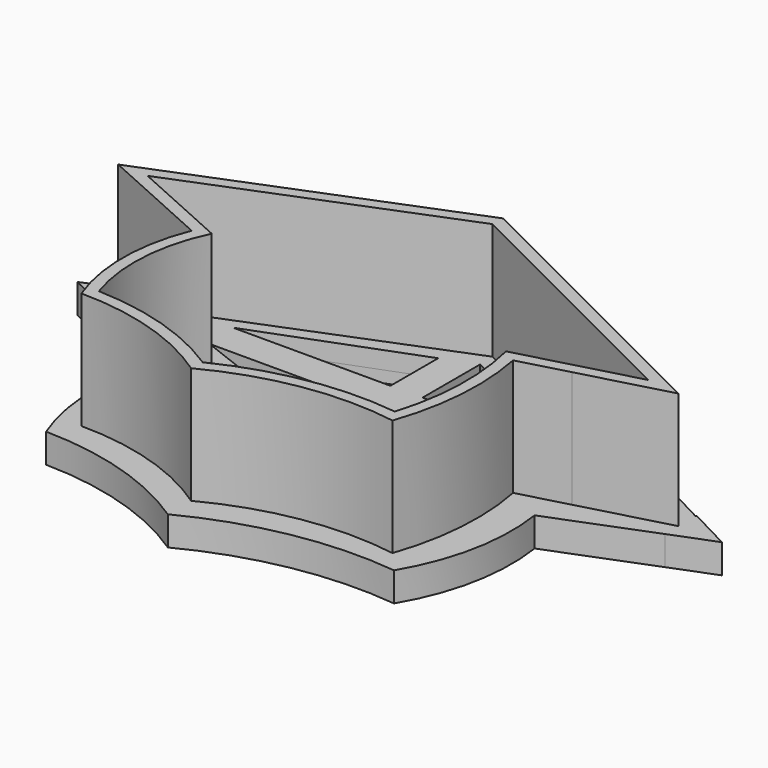
from build123d import *

# Parameters (mm, degrees)
F1_DEPTH = 25
F2_T     = -2
F3_DEPTH = 5
F4_DEPTH = 2.001


with BuildPart() as f1:
    # F0 (on Top) → F1 (new body)
    with BuildSketch(Plane.XY):
        with BuildLine():
            Line((50, 25), (0, 50))
            Line((0, 50), (-50, 30))
            Line((-50, 30), (-30.3478781134, 21.1675856689))
            ThreePointArc((-30.3478781134, 21.1675856689), (-32.6493723673, 9.4732493681), (-30.5, -2.25))
            Line((-30.5, -2.25), (-26.5, -2.25))
            Line((-26.5, -2.25), (-26.5, 3.6853529656))
            ThreePointArc((-26.5, 3.6853529656), (-27.4818472664, 11.1586005985), (-26.5, 18.6318482313))
            Line((-26.5, 18.6318482313), (-26.5, 19.4382022472))
            Line((-26.5, 19.4382022472), (-26.2986962157, 19.3477286363))
            ThreePointArc((-26.2986962157, 19.3477286363), (-25.4656340579, 21.7699494798), (-24.4215968996, 24.1089947522))
            Line((-24.4215968996, 24.1089947522), (-31.9740222767, 27.0544973761))
            Line((-31.9740222767, 27.0544973761), (-39.5264476538, 30))
            Line((-39.5264476538, 30), (-32.4590496756, 32.6820262372))
            Line((-32.4590496756, 32.6820262372), (-5.5, 42.9127899192))
            Line((-5.5, 42.9127899192), (0, 45))
            Line((0, 45), (24.6359475255, 32.6820262372))
            Line((24.6359475255, 32.6820262372), (35.8910052478, 27.0544973761))
            Line((35.8910052478, 27.0544973761), (38.0609311461, 25.9695344269))
            Line((38.0609311461, 25.9695344269), (34.1284329528, 25))
            Line((34.1284329528, 25), (25.6717936096, 22.915065036))
            ThreePointArc((25.6717936096, 22.915065036), (26.2373168575, 20.8214995062), (26.7024967211, 18.7033774922))
            Line((26.7024967211, 18.7033774922), (35, 20.9459459459))
            Line((35, 20.9459459459), (50, 25))
        make_face()
        with BuildLine():
            Line((-26.5, 3.6853529656), (-26.5, -2.25))
            Line((-26.5, -2.25), (-11.0695765548, -2.25))
            ThreePointArc((-11.0695765548, -2.25), (-18.3080653559, 0.1805256036), (-25.8265792788, 1.5128631071))
            ThreePointArc((-25.8265792788, 1.5128631071), (-26.1846465442, 2.5924878985), (-26.5, 3.6853529656))
        make_face()
        with BuildLine():
            ThreePointArc((25, -5), (27.4252333214, 6.7386371679), (26.7024967211, 18.7033774922))
            Line((26.7024967211, 18.7033774922), (22.2313324849, 17.4949547256))
            ThreePointArc((22.2313324849, 17.4949547256), (22.7872104866, 8.7214855275), (21.6833752096, 0))
            ThreePointArc((21.6833752096, 0), (10.6895547346, 0.0246300535), (0, -2.5440495396))
            ThreePointArc((0, -2.5440495396), (-2.7899905559, -3.6824675653), (-5.5, -5))
            Line((-5.5, -5), (-5.5, -10))
            ThreePointArc((-5.5, -10), (9.3443058496, -5.0252656824), (25, -5))
        make_face()
        with BuildLine():
            Line((-26.5, -2.25), (-30.5, -2.25))
            ThreePointArc((-30.5, -2.25), (-17.4131506848, -4.2319376927), (-5.5, -10))
            Line((-5.5, -10), (-5.5, -5))
            ThreePointArc((-5.5, -5), (-8.2432452262, -3.5408628349), (-11.0695765548, -2.25))
            Line((-11.0695765548, -2.25), (-26.5, -2.25))
        make_face()
        with BuildLine():
            Line((-26.5, -2.25), (-30.5, -2.25))
            ThreePointArc((-30.5, -2.25), (-17.4131506848, -4.2319376927), (-5.5, -10))
            Line((-5.5, -10), (-5.5, -5))
            ThreePointArc((-5.5, -5), (-8.2432452262, -3.5408628349), (-11.0695765548, -2.25))
            Line((-11.0695765548, -2.25), (-26.5, -2.25))
        make_face()
        with BuildLine():
            Line((-5.5, -2.25), (-11.0695765548, -2.25))
            ThreePointArc((-11.0695765548, -2.25), (-8.2432452262, -3.5408628349), (-5.5, -5))
            Line((-5.5, -5), (-5.5, -2.25))
        make_face()
        with BuildLine():
            Line((-5.5, -2.25), (-5.5, -5))
            ThreePointArc((-5.5, -5), (-2.7899905559, -3.6824675653), (0, -2.5440495396))
            Line((0, -2.5440495396), (0, 10))
            Line((0, 10), (0, 15))
            Line((0, 15), (0, 25))
            Line((0, 25), (0, 27.0544973761))
            Line((0, 27.0544973761), (0, 30))
            Line((0, 30), (0, 32.6820262372))
            Line((0, 32.6820262372), (0, 45))
            Line((0, 45), (-5.5, 42.9127899192))
            Line((-5.5, 42.9127899192), (-5.5, 32.6820262372))
            Line((-5.5, 32.6820262372), (-32.4590496756, 32.6820262372))
            Line((-32.4590496756, 32.6820262372), (-39.5264476538, 30))
            Line((-39.5264476538, 30), (-31.9740222767, 27.0544973761))
            Line((-31.9740222767, 27.0544973761), (-5.5, 27.0544973761))
            Line((-5.5, 27.0544973761), (-5.5, -2.25))
        make_face()
        with BuildLine():
            Line((21.3245172054, 21.8432694674), (25.6717936096, 22.915065036))
            Line((25.6717936096, 22.915065036), (34.1284329528, 25))
            Line((34.1284329528, 25), (38.0609311461, 25.9695344269))
            Line((38.0609311461, 25.9695344269), (35.8910052478, 27.0544973761))
            Line((35.8910052478, 27.0544973761), (0, 27.0544973761))
            Line((0, 27.0544973761), (0, 25))
            Line((0, 25), (0, 15))
            Line((0, 15), (0, 10))
            Line((0, 10), (0, -2.5440495396))
            ThreePointArc((0, -2.5440495396), (10.6895547346, 0.0246300535), (21.6833752096, 0))
            ThreePointArc((21.6833752096, 0), (22.7872104866, 8.7214855275), (22.2313324849, 17.4949547256))
            ThreePointArc((22.2313324849, 17.4949547256), (21.8298295871, 19.6799365229), (21.3245172054, 21.8432694674))
        make_face()
        with BuildLine():
            Line((22.2313324849, 17.4949547256), (26.7024967211, 18.7033774922))
            ThreePointArc((26.7024967211, 18.7033774922), (26.2373168575, 20.8214995062), (25.6717936096, 22.915065036))
            Line((25.6717936096, 22.915065036), (21.3245172054, 21.8432694674))
            ThreePointArc((21.3245172054, 21.8432694674), (21.8298295871, 19.6799365229), (22.2313324849, 17.4949547256))
        make_face()
        Polygon((0, 27.0544973761), (35.8910052478, 27.0544973761), (24.6359475255, 32.6820262372), (0, 32.6820262372), (0, 30), align=None)
        Polygon((0, 32.6820262372), (24.6359475255, 32.6820262372), (0, 45), align=None)
        Polygon((-5.5, 32.6820262372), (-5.5, 42.9127899192), (-32.4590496756, 32.6820262372), align=None)
        with BuildLine():
            ThreePointArc((-25.8265792788, 1.5128631071), (-18.3080653559, 0.1805256036), (-11.0695765548, -2.25))
            Line((-11.0695765548, -2.25), (-5.5, -2.25))
            Line((-5.5, -2.25), (-5.5, 27.0544973761))
            Line((-5.5, 27.0544973761), (-31.9740222767, 27.0544973761))
            Line((-31.9740222767, 27.0544973761), (-24.4215968996, 24.1089947522))
            ThreePointArc((-24.4215968996, 24.1089947522), (-25.4656340579, 21.7699494798), (-26.2986962157, 19.3477286363))
            ThreePointArc((-26.2986962157, 19.3477286363), (-26.4016482615, 18.9904352313), (-26.5, 18.6318482313))
            ThreePointArc((-26.5, 18.6318482313), (-27.4818472664, 11.1586005985), (-26.5, 3.6853529656))
            ThreePointArc((-26.5, 3.6853529656), (-26.1846465442, 2.5924878985), (-25.8265792788, 1.5128631071))
        make_face()
        with BuildLine():
            Line((-26.5, 19.4382022472), (-26.5, 18.6318482313))
            ThreePointArc((-26.5, 18.6318482313), (-26.4016482615, 18.9904352313), (-26.2986962157, 19.3477286363))
            Line((-26.2986962157, 19.3477286363), (-26.5, 19.4382022472))
        make_face()
    extrude(amount=F1_DEPTH)

    # F2
    f2_openings = [f1.faces().sort_by_distance(p)[0] for p in [
        (-1.454466, 20.176979, 25),
    ]]
    offset(amount=F2_T, openings=f2_openings, kind=Kind.INTERSECTION)

    # F0 (on Top) → F3 (join)
    with BuildSketch(Plane.XY):
        with BuildLine():
            Line((50, 22.0773804358), (50, 25))
            Line((50, 25), (35, 20.9459459459))
            Line((35, 20.9459459459), (26.7024967211, 18.7033774922))
            ThreePointArc((26.7024967211, 18.7033774922), (27.4252333214, 6.7386371679), (25, -5))
            ThreePointArc((25, -5), (9.3443058496, -5.0252656824), (-5.5, -10))
            Line((-5.5, -10), (-5.5, -15))
            ThreePointArc((-5.5, -15), (10.9294258994, -9.3812200513), (28.2823865676, -8.7717288371))
            ThreePointArc((28.2823865676, -8.7717288371), (32.739691971, 2.91239876), (33.0105349422, 15.4149206355))
            Line((33.0105349422, 15.4149206355), (50, 22.0773804358))
        make_face()
        Polygon((50, 28.6842105263), (9.5, 50), (0, 50), (50, 25), align=None)
        Polygon((0, 50), (9.5, 50), (0, 55), (-11.4, 50), align=None)
        Polygon((-50, 30), (0, 50), (-11.4, 50), (-50, 33.0701754386), align=None)
        Polygon((-50, 26.6638008012), (-50, 30), (-50, 33.0701754386), (-57, 30), align=None)
        with BuildLine():
            Line((-30.3478781134, 21.1675856689), (-50, 30))
            Line((-50, 30), (-50, 26.6638008012))
            Line((-50, 26.6638008012), (-33.6950486526, 18.8928628554))
            ThreePointArc((-33.6950486526, 18.8928628554), (-35.7455733347, 6.1667010563), (-33.1864199092, -6.467007004))
            ThreePointArc((-33.1864199092, -6.467007004), (-18.7245752181, -8.7262616008), (-5.5, -15))
            Line((-5.5, -15), (-5.5, -10))
            ThreePointArc((-5.5, -10), (-17.4131506848, -4.2319376927), (-30.5, -2.25))
            ThreePointArc((-30.5, -2.25), (-32.6493723673, 9.4732493681), (-30.3478781134, 21.1675856689))
        make_face()
        with BuildLine():
            ThreePointArc((25, -5), (27.4252333214, 6.7386371679), (26.7024967211, 18.7033774922))
            Line((26.7024967211, 18.7033774922), (22.2313324849, 17.4949547256))
            ThreePointArc((22.2313324849, 17.4949547256), (22.7872104866, 8.7214855275), (21.6833752096, 0))
            ThreePointArc((21.6833752096, 0), (10.6895547346, 0.0246300535), (0, -2.5440495396))
            ThreePointArc((0, -2.5440495396), (-2.7899905559, -3.6824675653), (-5.5, -5))
            Line((-5.5, -5), (-5.5, -10))
            ThreePointArc((-5.5, -10), (9.3443058496, -5.0252656824), (25, -5))
        make_face()
        with BuildLine():
            Line((-26.5, -2.25), (-30.5, -2.25))
            ThreePointArc((-30.5, -2.25), (-17.4131506848, -4.2319376927), (-5.5, -10))
            Line((-5.5, -10), (-5.5, -5))
            ThreePointArc((-5.5, -5), (-8.2432452262, -3.5408628349), (-11.0695765548, -2.25))
            Line((-11.0695765548, -2.25), (-26.5, -2.25))
        make_face()
        with BuildLine():
            Line((-26.5, 3.6853529656), (-26.5, -2.25))
            Line((-26.5, -2.25), (-11.0695765548, -2.25))
            ThreePointArc((-11.0695765548, -2.25), (-18.3080653559, 0.1805256036), (-25.8265792788, 1.5128631071))
            ThreePointArc((-25.8265792788, 1.5128631071), (-26.1846465442, 2.5924878985), (-26.5, 3.6853529656))
        make_face()
        with BuildLine():
            Line((50, 25), (0, 50))
            Line((0, 50), (-50, 30))
            Line((-50, 30), (-30.3478781134, 21.1675856689))
            ThreePointArc((-30.3478781134, 21.1675856689), (-32.6493723673, 9.4732493681), (-30.5, -2.25))
            Line((-30.5, -2.25), (-26.5, -2.25))
            Line((-26.5, -2.25), (-26.5, 3.6853529656))
            ThreePointArc((-26.5, 3.6853529656), (-27.4818472664, 11.1586005985), (-26.5, 18.6318482313))
            Line((-26.5, 18.6318482313), (-26.5, 19.4382022472))
            Line((-26.5, 19.4382022472), (-26.2986962157, 19.3477286363))
            ThreePointArc((-26.2986962157, 19.3477286363), (-25.4656340579, 21.7699494798), (-24.4215968996, 24.1089947522))
            Line((-24.4215968996, 24.1089947522), (-31.9740222767, 27.0544973761))
            Line((-31.9740222767, 27.0544973761), (-39.5264476538, 30))
            Line((-39.5264476538, 30), (-32.4590496756, 32.6820262372))
            Line((-32.4590496756, 32.6820262372), (-5.5, 42.9127899192))
            Line((-5.5, 42.9127899192), (0, 45))
            Line((0, 45), (24.6359475255, 32.6820262372))
            Line((24.6359475255, 32.6820262372), (35.8910052478, 27.0544973761))
            Line((35.8910052478, 27.0544973761), (38.0609311461, 25.9695344269))
            Line((38.0609311461, 25.9695344269), (34.1284329528, 25))
            Line((34.1284329528, 25), (25.6717936096, 22.915065036))
            ThreePointArc((25.6717936096, 22.915065036), (26.2373168575, 20.8214995062), (26.7024967211, 18.7033774922))
            Line((26.7024967211, 18.7033774922), (35, 20.9459459459))
            Line((35, 20.9459459459), (50, 25))
        make_face()
        with BuildLine():
            Line((22.2313324849, 17.4949547256), (26.7024967211, 18.7033774922))
            ThreePointArc((26.7024967211, 18.7033774922), (26.2373168575, 20.8214995062), (25.6717936096, 22.915065036))
            Line((25.6717936096, 22.915065036), (21.3245172054, 21.8432694674))
            ThreePointArc((21.3245172054, 21.8432694674), (21.8298295871, 19.6799365229), (22.2313324849, 17.4949547256))
        make_face()
        with BuildLine():
            Line((-5.5, -2.25), (-5.5, -5))
            ThreePointArc((-5.5, -5), (-2.7899905559, -3.6824675653), (0, -2.5440495396))
            Line((0, -2.5440495396), (0, 10))
            Line((0, 10), (0, 15))
            Line((0, 15), (0, 25))
            Line((0, 25), (0, 27.0544973761))
            Line((0, 27.0544973761), (0, 30))
            Line((0, 30), (0, 32.6820262372))
            Line((0, 32.6820262372), (0, 45))
            Line((0, 45), (-5.5, 42.9127899192))
            Line((-5.5, 42.9127899192), (-5.5, 32.6820262372))
            Line((-5.5, 32.6820262372), (-32.4590496756, 32.6820262372))
            Line((-32.4590496756, 32.6820262372), (-39.5264476538, 30))
            Line((-39.5264476538, 30), (-31.9740222767, 27.0544973761))
            Line((-31.9740222767, 27.0544973761), (-5.5, 27.0544973761))
            Line((-5.5, 27.0544973761), (-5.5, -2.25))
        make_face()
        Polygon((0, 27.0544973761), (35.8910052478, 27.0544973761), (24.6359475255, 32.6820262372), (0, 32.6820262372), (0, 30), align=None)
        Polygon((57.4527643621, 25), (50, 28.8915957021), (50, 28.6842105263), (50, 25), (50, 22.0773804358), align=None)
    extrude(amount=F3_DEPTH)

    # F4 (cut, through all): faces of the model
    f4_faces = [f1.faces().sort_by_distance(p)[0] for p in [
        (-15.7903143364, 13.0391590312, 2),
        (12.2322076689, 14.1398784717, 2),
        (8.2119825085, 36.7880174915, 2),
        (-14.4863498919, 36.0922807979, 2),
    ]]
    extrude(f4_faces, amount=-F4_DEPTH, mode=Mode.SUBTRACT)


solid = f1.part
